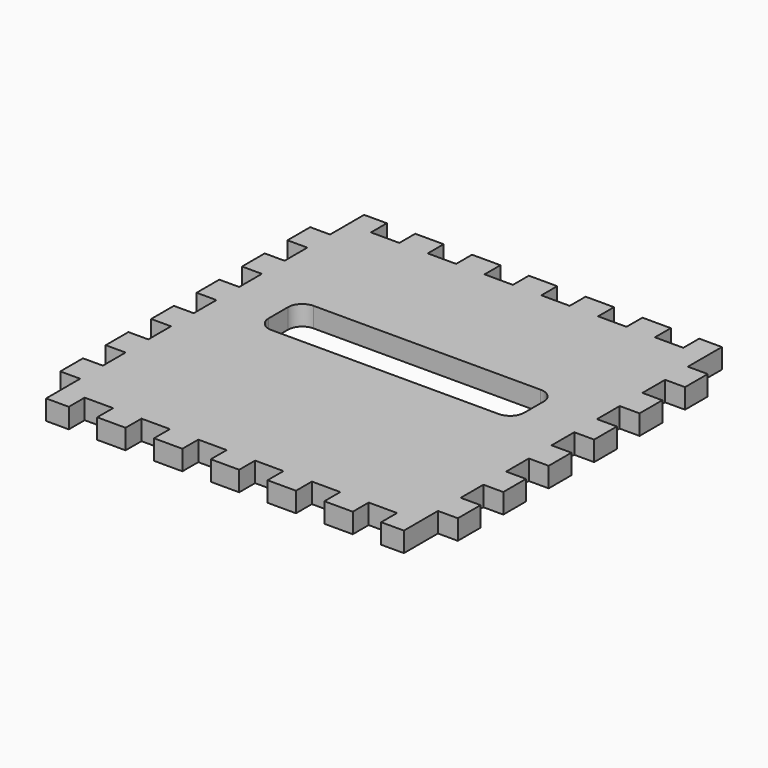
from build123d import *

# Parameters (mm, degrees)
F1_DEPTH = 8.89


with BuildPart() as f1:
    # F0 (on Top) → F1 (new body)
    with BuildSketch(Plane.XY):
        Polygon((19.05, 0), (8.89, 0), (8.89, -19.05), (0, -19.05), (0, -31.75), (8.89, -31.75), (8.89, -44.45), (0, -44.45), (0, -57.15), (8.89, -57.15), (8.89, -69.85), (0, -69.85), (0, -82.55), (8.89, -82.55), (8.89, -95.25), (0, -95.25), (0, -107.95), (8.89, -107.95), (8.89, -120.65), (0, -120.65), (0, -133.35), (8.89, -133.35), (8.89, -146.05), (0, -146.05), (0, -158.75), (8.89, -158.75), (8.89, -177.8), (19.05, -177.8), (19.05, -168.91), (31.75, -168.91), (31.75, -177.8), (44.45, -177.8), (44.45, -168.91), (57.15, -168.91), (57.15, -177.8), (69.85, -177.8), (69.85, -168.91), (82.55, -168.91), (82.55, -177.8), (95.25, -177.8), (95.25, -168.91), (107.95, -168.91), (107.95, -177.8), (120.65, -177.8), (120.65, -168.91), (133.35, -168.91), (133.35, -177.8), (146.05, -177.8), (146.05, -168.91), (158.75, -168.91), (158.75, -177.8), (168.91, -177.8), (168.91, -158.75), (177.8, -158.75), (177.8, -146.05), (168.91, -146.05), (168.91, -133.35), (177.8, -133.35), (177.8, -120.65), (168.91, -120.65), (168.91, -107.95), (177.8, -107.95), (177.8, -95.25), (168.91, -95.25), (168.91, -82.55), (177.8, -82.55), (177.8, -69.85), (168.91, -69.85), (168.91, -57.15), (177.8, -57.15), (177.8, -44.45), (168.91, -44.45), (168.91, -31.75), (177.8, -31.75), (177.8, -19.05), (168.91, -19.05), (168.91, 0), (158.75, 0), (158.75, -8.89), (146.05, -8.89), (146.05, 0), (133.35, 0), (133.35, -8.89), (120.65, -8.89), (120.65, 0), (107.95, 0), (107.95, -8.89), (95.25, -8.89), (95.25, 0), (82.55, 0), (82.55, -8.89), (69.85, -8.89), (69.85, 0), (57.15, 0), (57.15, -8.89), (44.45, -8.89), (44.45, 0), (31.75, 0), (31.75, -8.89), (19.05, -8.89), align=None)
        with BuildLine():
            ThreePointArc((31.75, -71.12), (33.609872, -66.629872), (38.1, -64.77))
            Line((38.1, -64.77), (139.7, -64.77))
            ThreePointArc((139.7, -64.77), (144.190128, -66.629872), (146.05, -71.12))
            Line((146.05, -71.12), (146.05, -81.915))
            ThreePointArc((146.05, -81.915), (144.190128, -86.405128), (139.7, -88.265))
            Line((139.7, -88.265), (38.1, -88.265))
            ThreePointArc((38.1, -88.265), (33.609872, -86.405128), (31.75, -81.915))
            Line((31.75, -81.915), (31.75, -71.12))
        make_face(mode=Mode.SUBTRACT)
    extrude(amount=F1_DEPTH)


solid = f1.part
